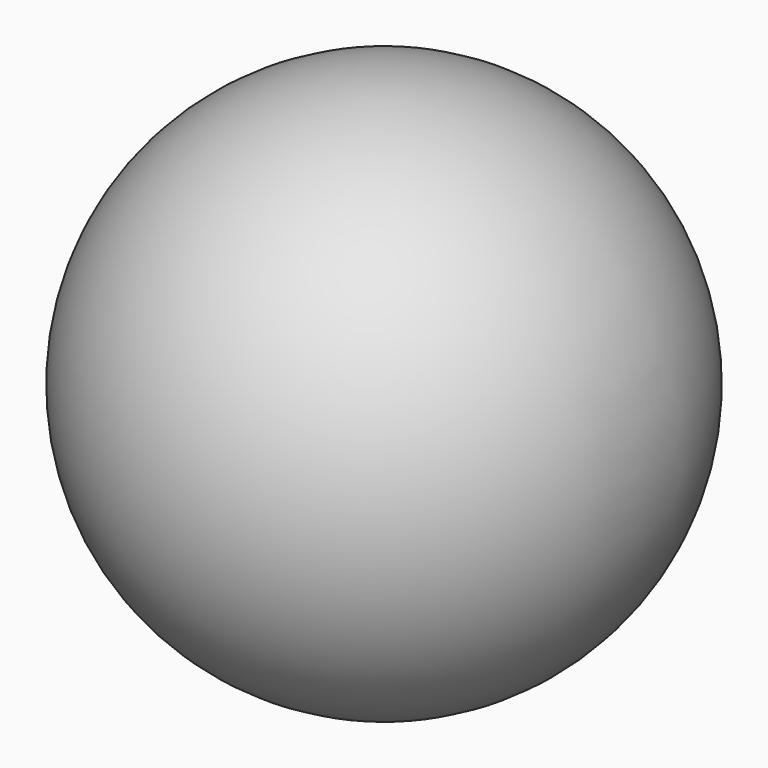
from build123d import *

# Parameters (mm, degrees)
F2_T = -2.54


with BuildPart() as f1:
    # F0 (on Front) → F1 (revolve)
    with BuildSketch(Plane.XZ):
        with BuildLine():
            Line((0, 41.9490757858), (0, -41.9490757858))
            ThreePointArc((0, -41.9490757858), (41.9490757858, 0), (0, 41.9490757858))
        make_face()
    revolve(axis=Axis((0, 0, 0), (0, 0, -1)))

    # F2 (hollow: no face is removed)
    offset(amount=F2_T, mode=Mode.SUBTRACT)


solid = f1.part
